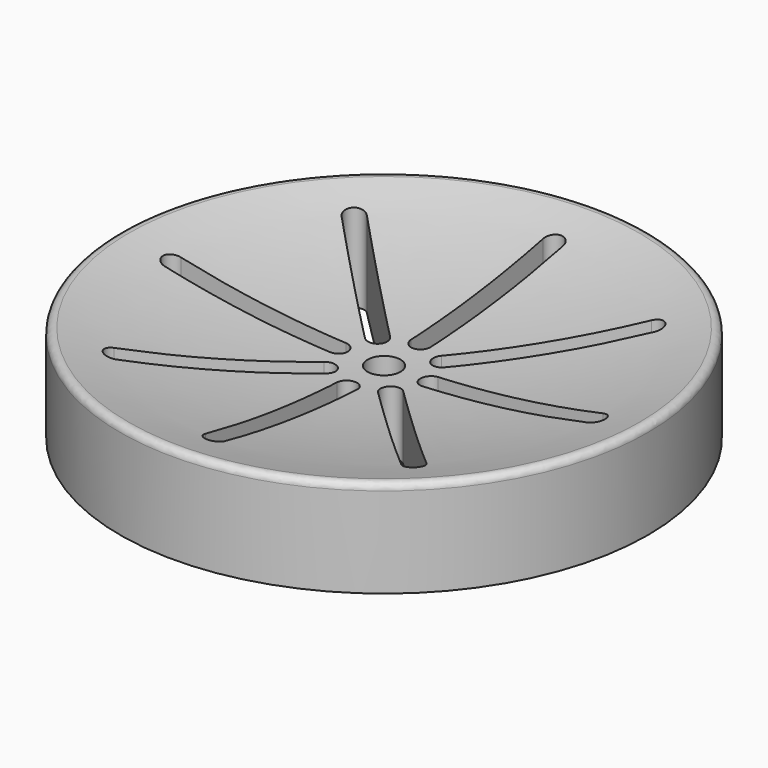
from build123d import *

# Parameters (mm, degrees)
F0_R     = 40
F1_DEPTH = 15
F4_R     = 1
F5_R     = 2.5
F6_DEPTH = 14.692663


with BuildPart() as f1:
    # F0 (on Top) → F1 (new body)
    with BuildSketch(Plane.XY):
        Circle(F0_R)
    extrude(amount=F1_DEPTH)

    # F2 (on Front) → F3 (revolve, cut)
    with BuildSketch(Plane.XZ):
        with BuildLine():
            Line((0, 15), (0, 9.568323))
            ThreePointArc((0, 9.568323), (20.183552, 10.932445), (40, 15))
            Line((40, 15), (0, 15))
        make_face()
    revolve(axis=Axis((0, 0, 12.284161), (0, 0, -1)), mode=Mode.SUBTRACT)

    # F4
    f4_edges = [f1.edges().sort_by_distance(p)[0] for p in [
        (20.183552, 0, 10.932445),
        (-40, 0, 15),
    ]]
    fillet(f4_edges, radius=F4_R)

    # F5 (on Top) → F6 (cut, through all)
    with BuildSketch(Plane.XY):
        Circle(F5_R)
        with BuildLine():
            Line((-32, -1.5), (-7, -1.5))
            ThreePointArc((-7, -1.5), (-5.5, 0), (-7, 1.5))
            Line((-7, 1.5), (-32, 1.5))
            ThreePointArc((-32, 1.5), (-33.5, 0), (-32, -1.5))
        make_face()
        with BuildLine():
            Line((-6.010408, -3.889087), (-23.688077, -21.566757))
            ThreePointArc((-23.688077, -21.566757), (-23.688077, -23.688077), (-21.566757, -23.688077))
            Line((-21.566757, -23.688077), (-3.889087, -6.010408))
            ThreePointArc((-3.889087, -6.010408), (-3.889087, -3.889087), (-6.010408, -3.889087))
        make_face()
        with BuildLine():
            Line((-1.5, -7), (-1.5, -32))
            ThreePointArc((-1.5, -32), (0, -33.5), (1.5, -32))
            Line((1.5, -32), (1.5, -7))
            ThreePointArc((1.5, -7), (0, -5.5), (-1.5, -7))
        make_face()
        with BuildLine():
            Line((3.889087, -6.010408), (21.566757, -23.688077))
            ThreePointArc((21.566757, -23.688077), (23.688077, -23.688077), (23.688077, -21.566757))
            Line((23.688077, -21.566757), (6.010408, -3.889087))
            ThreePointArc((6.010408, -3.889087), (3.889087, -3.889087), (3.889087, -6.010408))
        make_face()
        with BuildLine():
            Line((7, -1.5), (32, -1.5))
            ThreePointArc((32, -1.5), (33.5, 0), (32, 1.5))
            Line((32, 1.5), (7, 1.5))
            ThreePointArc((7, 1.5), (5.5, 0), (7, -1.5))
        make_face()
        with BuildLine():
            Line((6.010408, 3.889087), (23.688077, 21.566757))
            ThreePointArc((23.688077, 21.566757), (23.688077, 23.688077), (21.566757, 23.688077))
            Line((21.566757, 23.688077), (3.889087, 6.010408))
            ThreePointArc((3.889087, 6.010408), (3.889087, 3.889087), (6.010408, 3.889087))
        make_face()
        with BuildLine():
            Line((1.5, 7), (1.5, 32))
            ThreePointArc((1.5, 32), (0, 33.5), (-1.5, 32))
            Line((-1.5, 32), (-1.5, 7))
            ThreePointArc((-1.5, 7), (0, 5.5), (1.5, 7))
        make_face()
        with BuildLine():
            Line((-3.889087, 6.010408), (-21.566757, 23.688077))
            ThreePointArc((-21.566757, 23.688077), (-23.688077, 23.688077), (-23.688077, 21.566757))
            Line((-23.688077, 21.566757), (-6.010408, 3.889087))
            ThreePointArc((-6.010408, 3.889087), (-3.889087, 3.889087), (-3.889087, 6.010408))
        make_face()
    extrude(amount=F6_DEPTH, mode=Mode.SUBTRACT)


solid = f1.part
